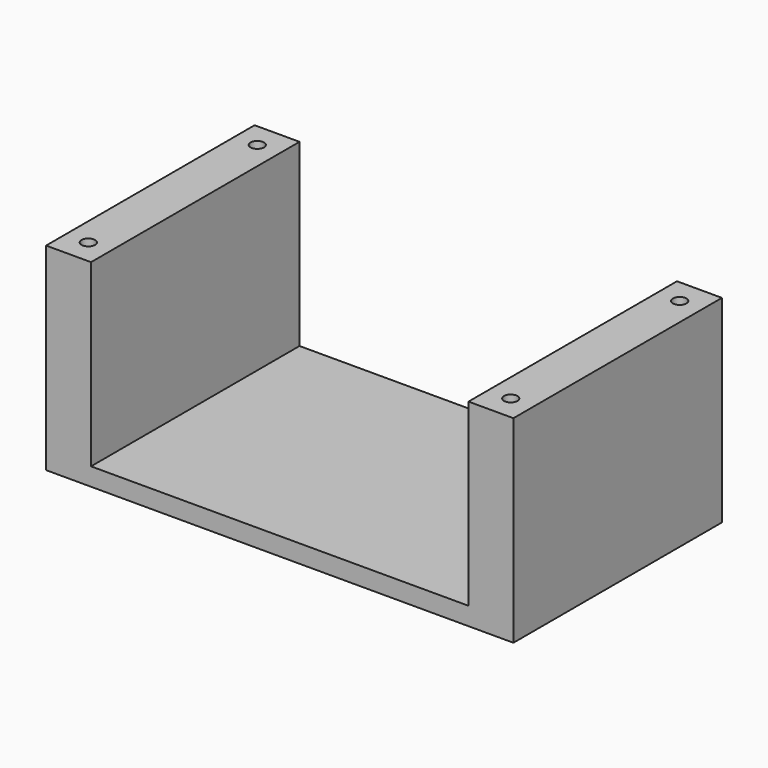
from build123d import *

# Parameters (mm, degrees)
SKETCH_W     = 52
SKETCH_H     = 29
PAD_DEPTH    = 2
SKETCH001_W  = 5
SKETCH001_H  = 29
PAD001_DEPTH = 20
SKETCH002_R  = 0.75
POCKET_DEPTH = 5


with BuildPart() as part:
    # Sketch → Pad (new body)
    with BuildSketch(Plane.XY):
        Rectangle(SKETCH_W, SKETCH_H)
    extrude(amount=PAD_DEPTH)

    # Sketch001 (on Face6 of Pad) → Pad001 (join)
    with BuildSketch(Plane.XY.offset(2)):
        with Locations((-23.5, 0)):
            Rectangle(SKETCH001_W, SKETCH001_H)
        with Locations((23.5, 0)):
            Rectangle(SKETCH001_W, SKETCH001_H)
    extrude(amount=PAD001_DEPTH)

    # Sketch002 (on Face12 of Pad001) → Pocket (cut)
    with BuildSketch(Plane.XY.offset(22)):
        with Locations((-23.5, 11.75)):
            Circle(SKETCH002_R)
        with Locations((-23.5, -11.75)):
            Circle(SKETCH002_R)
        with Locations((23.5, 11.75)):
            Circle(SKETCH002_R)
        with Locations((23.5, -11.75)):
            Circle(SKETCH002_R)
    extrude(amount=-POCKET_DEPTH, mode=Mode.SUBTRACT)


solid = part.part
